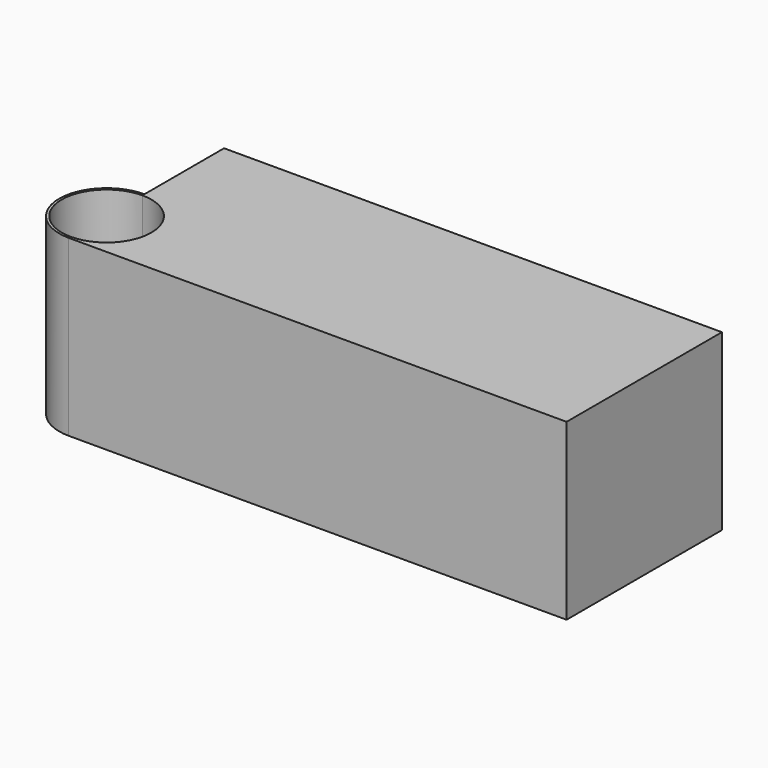
from build123d import *

# Parameters (mm, degrees)
F1_DEPTH = 30
F2_DEPTH = 20
F3_DEPTH = 20
F4_DEPTH = 15


with BuildPart() as f1:
    # F0 (on Top) → F1 (new body)
    with BuildSketch(Plane.XY):
        with BuildLine():
            ThreePointArc((0, 9), (6.3639610307, 6.3639610307), (9, 0))
            ThreePointArc((9, 0), (6.3639610307, -6.3639610307), (0, -9))
            Line((0, -9), (0, -9.5))
            ThreePointArc((0, -9.5), (6.7175144213, -6.7175144213), (9.5, 0))
            ThreePointArc((9.5, 0), (6.7175144213, 6.7175144213), (0, 9.5))
            Line((0, 9.5), (0, 9))
        make_face()
        with BuildLine():
            ThreePointArc((0, -9), (-9, 0), (0, 9))
            Line((0, 9), (0, 9.5))
            ThreePointArc((0, 9.5), (-9.5, 0), (0, -9.5))
            Line((0, -9.5), (0, -9))
        make_face()
        with BuildLine():
            Line((100, 9.5), (0, 9.5))
            ThreePointArc((0, 9.5), (6.7175144213, 6.7175144213), (9.5, 0))
            ThreePointArc((9.5, 0), (6.7175144213, -6.7175144213), (0, -9.5))
            Line((0, -9.5), (100, -9.5))
            Line((100, -9.5), (100, 9.5))
        make_face()
    extrude(amount=F1_DEPTH)

    # F0 (on Top) → F2 (join)
    with BuildSketch(Plane.XY):
        with BuildLine():
            Line((100, 9.5), (0, 9.5))
            ThreePointArc((0, 9.5), (6.7175144213, 6.7175144213), (9.5, 0))
            ThreePointArc((9.5, 0), (6.7175144213, -6.7175144213), (0, -9.5))
            Line((0, -9.5), (100, -9.5))
            Line((100, -9.5), (100, 9.5))
        make_face()
        with BuildLine():
            ThreePointArc((0, 9), (6.3639610307, 6.3639610307), (9, 0))
            ThreePointArc((9, 0), (6.3639610307, -6.3639610307), (0, -9))
            Line((0, -9), (0, -9.5))
            ThreePointArc((0, -9.5), (6.7175144213, -6.7175144213), (9.5, 0))
            ThreePointArc((9.5, 0), (6.7175144213, 6.7175144213), (0, 9.5))
            Line((0, 9.5), (0, 9))
        make_face()
        with BuildLine():
            ThreePointArc((0, -9), (6.3639610307, -6.3639610307), (9, 0))
            ThreePointArc((9, 0), (6.3639610307, 6.3639610307), (0, 9))
            Line((0, 9), (0, 0))
            Line((0, 0), (0, -9))
        make_face()
        with BuildLine():
            ThreePointArc((0, -9), (-9, 0), (0, 9))
            Line((0, 9), (0, 9.5))
            ThreePointArc((0, 9.5), (-9.5, 0), (0, -9.5))
            Line((0, -9.5), (0, -9))
        make_face()
        with BuildLine():
            Line((0, 0), (0, 9))
            ThreePointArc((0, 9), (-9, 0), (0, -9))
            Line((0, -9), (0, 0))
        make_face()
    extrude(amount=-F2_DEPTH)

    # F3 (add): a face of the model
    f3_faces = [f1.faces().sort_by_distance(p)[0] for p in [
        (50, 9.5, 5),
    ]]
    extrude(f3_faces, amount=F3_DEPTH)

    # F4 (cut): a face of the model
    f4_faces = [f1.faces().sort_by_distance(p)[0] for p in [
        (48.1048371306, 9.6492512785, -20),
    ]]
    extrude(f4_faces, amount=-F4_DEPTH, mode=Mode.SUBTRACT)


solid = f1.part
